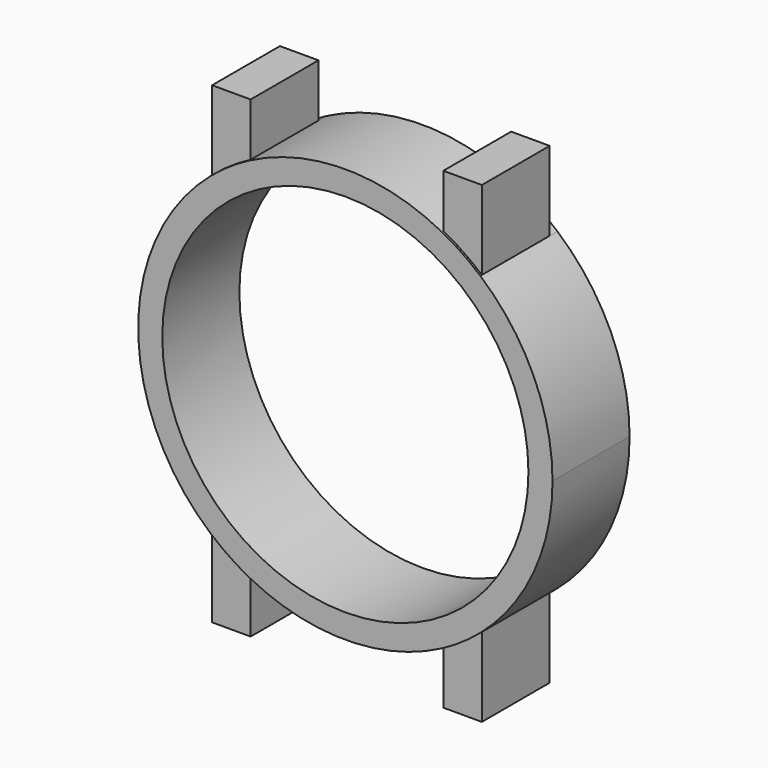
from build123d import *

# Parameters (mm, degrees)
F0_R     = 21
F0_R_2   = 19
F1_DEPTH = 10
F2_START = 1
F0_W     = 4
F0_H     = 5.5
F2_DEPTH = 8.8


with BuildPart() as f1:
    # F0 (on Front) → F1 (new body)
    with BuildSketch(Plane.XZ):
        with BuildLine():
            ThreePointArc((14.0088664428, -16.3095573511), (19.5376639919, -8.9738333916), (21.5, 0))
            ThreePointArc((21.5, 0), (19.5376639919, 8.9738333916), (14.0088664428, 16.3095573511))
            ThreePointArc((14.0088664428, 16.3095573511), (12.085554797, 17.7817143507), (10.0088664428, 19.0282051842))
            ThreePointArc((10.0088664428, 19.0282051842), (0.010015755, 21.4999976671), (-9.9911335572, 19.0375221665))
            ThreePointArc((-9.9911335572, 19.0375221665), (-12.067602799, 17.7939024018), (-13.9911335572, 16.3247720285))
            ThreePointArc((-13.9911335572, 16.3247720285), (-21.5, 0), (-13.9911335572, -16.3247720285))
            ThreePointArc((-13.9911335572, -16.3247720285), (-12.067602799, -17.7939024018), (-9.9911335572, -19.0375221665))
            ThreePointArc((-9.9911335572, -19.0375221665), (0.010015755, -21.4999976671), (10.0088664428, -19.0282051842))
            ThreePointArc((10.0088664428, -19.0282051842), (12.085554797, -17.7817143507), (14.0088664428, -16.3095573511))
        make_face()
        Circle(F0_R, mode=Mode.SUBTRACT)
        Circle(F0_R)
        Circle(F0_R_2, mode=Mode.SUBTRACT)
    extrude(amount=F1_DEPTH)

    # F0 (on Front) → F2 (join)
    with BuildSketch(Plane.XZ.offset(F2_START)):
        with Locations((12.0088664428, 21.7782051842)):
            Rectangle(F0_W, F0_H)
        with BuildLine():
            ThreePointArc((10.0088664428, 19.0282051842), (12.085554797, 17.7817143507), (14.0088664428, 16.3095573511))
            Line((14.0088664428, 16.3095573511), (14.0088664428, 19.0282051842))
            Line((14.0088664428, 19.0282051842), (10.0088664428, 19.0282051842))
        make_face()
        with Locations((-11.9911335572, 21.7875221665)):
            Rectangle(F0_W, F0_H)
        with BuildLine():
            ThreePointArc((-13.9911335572, 16.3247720285), (-12.067602799, 17.7939024018), (-9.9911335572, 19.0375221665))
            Line((-9.9911335572, 19.0375221665), (-13.9911335572, 19.0375221665))
            Line((-13.9911335572, 19.0375221665), (-13.9911335572, 16.3247720285))
        make_face()
        with Locations((12.0088664428, -21.7782051842)):
            Rectangle(F0_W, F0_H)
        with Locations((-11.9911335572, -21.7875221665)):
            Rectangle(F0_W, F0_H)
        with BuildLine():
            Line((-13.9911335572, -19.0375221665), (-9.9911335572, -19.0375221665))
            ThreePointArc((-9.9911335572, -19.0375221665), (-12.067602799, -17.7939024018), (-13.9911335572, -16.3247720285))
            Line((-13.9911335572, -16.3247720285), (-13.9911335572, -19.0375221665))
        make_face()
        with BuildLine():
            Line((14.0088664428, -19.0282051842), (14.0088664428, -16.3095573511))
            ThreePointArc((14.0088664428, -16.3095573511), (12.085554797, -17.7817143507), (10.0088664428, -19.0282051842))
            Line((10.0088664428, -19.0282051842), (14.0088664428, -19.0282051842))
        make_face()
    extrude(amount=F2_DEPTH)


solid = f1.part
